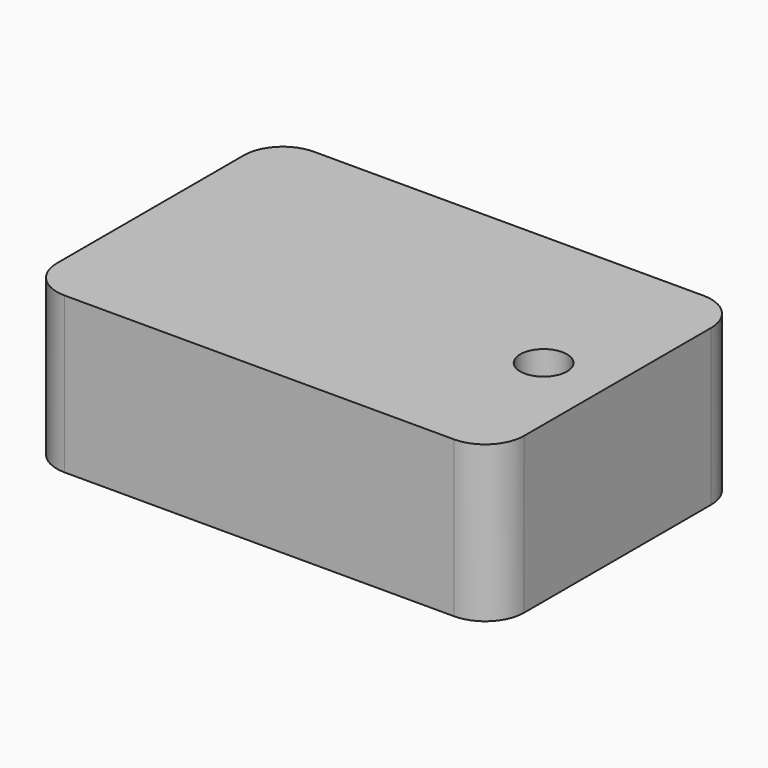
from build123d import *

# Parameters (mm, degrees)
F0_W     = 300
F0_H     = 200
F0_R     = 15
F1_DEPTH = 100
F2_R     = 25
F3_R     = 25


with BuildPart() as f1:
    # F0 (on Top) → F1 (new body)
    with BuildSketch(Plane.XY):
        with Locations((7.243371, 7.086681)):
            Rectangle(F0_W, F0_H)
        with Locations((115.392633, 0)):
            Circle(F0_R, mode=Mode.SUBTRACT)
    extrude(amount=F1_DEPTH)

    # F2
    f2_edges = [f1.edges().sort_by_distance(p)[0] for p in [
        (157.243371, 107.086681, 50),
    ]]
    fillet(f2_edges, radius=F2_R)

    # F3
    f3_edges = [f1.edges().sort_by_distance(p)[0] for p in [
        (-142.756629, 107.086681, 50),
        (-142.756629, -92.913319, 50),
        (157.243371, -92.913319, 50),
    ]]
    fillet(f3_edges, radius=F3_R)


solid = f1.part
